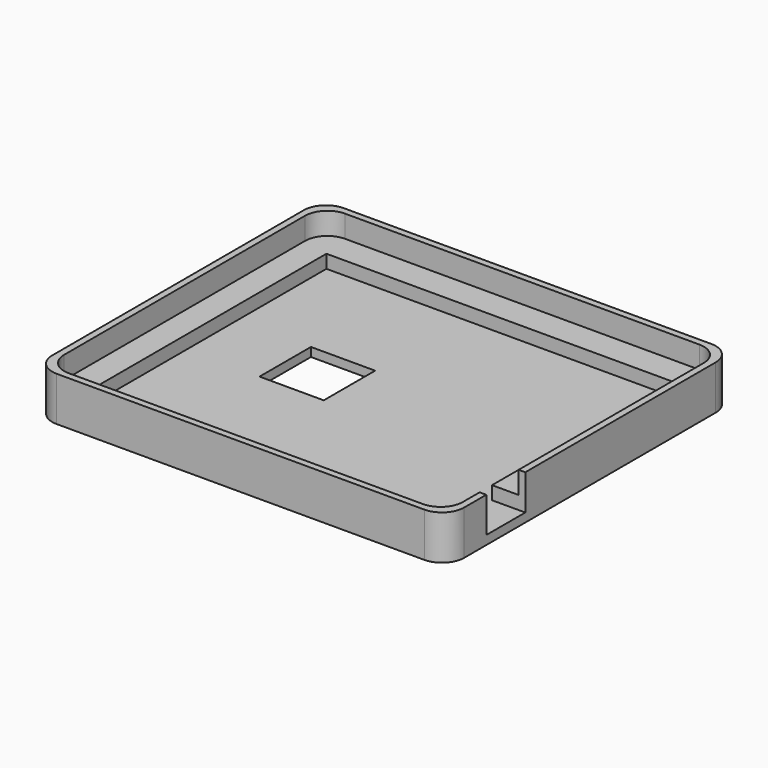
from build123d import *

# Parameters (mm, degrees)
SKETCH_W        = 93
SKETCH_H        = 81
PAD_DEPTH       = 10
SKETCH001_W     = 78
SKETCH001_H     = 65
POCKET_DEPTH    = 8
SKETCH002_W     = 90
SKETCH002_H     = 78
POCKET001_DEPTH = 5
SKETCH003_W     = 11.5902
SKETCH003_H     = 11
POCKET002_DEPTH = 8
FILLET_R        = 5
FILLET001_R     = 5
SKETCH004_W     = 14.5
SKETCH004_H     = 14.5
POCKET003_DEPTH = 10.001


with BuildPart() as part:
    # Sketch → Pad (new body)
    with BuildSketch(Plane.XY):
        Rectangle(SKETCH_W, SKETCH_H)
    extrude(amount=PAD_DEPTH)

    # Sketch001 → Pocket (cut)
    with BuildSketch(Plane.XY.offset(10)):
        Rectangle(SKETCH001_W, SKETCH001_H)
    extrude(amount=-POCKET_DEPTH, mode=Mode.SUBTRACT)

    # Sketch002 → Pocket001 (cut)
    with BuildSketch(Plane.XY.offset(10)):
        Rectangle(SKETCH002_W, SKETCH002_H)
    extrude(amount=-POCKET001_DEPTH, mode=Mode.SUBTRACT)

    # Sketch003 → Pocket002 (cut)
    with BuildSketch(Plane.XY.offset(10)):
        with Locations((42.744, -23.7601)):
            Rectangle(SKETCH003_W, SKETCH003_H)
    extrude(amount=-POCKET002_DEPTH, mode=Mode.SUBTRACT)

    # Fillet
    fillet_edges = [part.edges().sort_by_distance(p)[0] for p in [
        (45, 39, 7.5),
        (-45, 39, 7.5),
        (45, -39, 7.5),
        (-45, -39, 7.5),
    ]]
    fillet(fillet_edges, radius=FILLET_R)

    # Fillet001
    fillet001_edges = [part.edges().sort_by_distance(p)[0] for p in [
        (46.5, -40.5, 5),
        (-46.5, -40.5, 5),
        (-46.5, 40.5, 5),
        (46.5, 40.5, 5),
    ]]
    fillet(fillet001_edges, radius=FILLET001_R)

    # Sketch004 → Pocket003 (cut, through all)
    with BuildSketch(Plane(origin=(0, 0, 0), x_dir=(1, 0, 0), z_dir=(0, 0, -1))):
        with Locations((-15.25, -0.25)):
            Rectangle(SKETCH004_W, SKETCH004_H)
    extrude(amount=-POCKET003_DEPTH, mode=Mode.SUBTRACT)


solid = part.part
